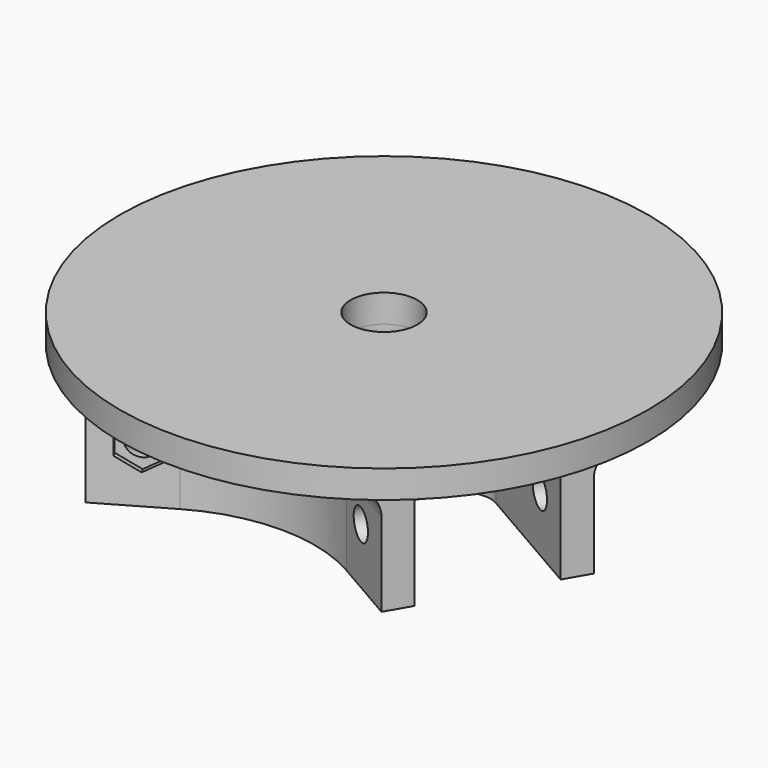
from build123d import *

# Parameters (mm, degrees)
SKETCH_R             = 47.5
SKETCH_R_2           = 6
PAD_DEPTH            = 5
SKETCH001_R          = 6
PAD001_DEPTH         = 20
FILLET_R             = 30
POCKET_DEPTH         = 1
SKETCH003_R          = 2.75
POCKET001_DEPTH      = 320.814007
POCKET001_DEPTH_BACK = 320.814007
POLARPATTERN_COUNT   = 3
FILLET001_R          = 5


with BuildPart() as part:
    # Sketch → Pad (new body)
    with BuildSketch(Plane.XY):
        Circle(SKETCH_R)
        Circle(SKETCH_R_2, mode=Mode.SUBTRACT)
    extrude(amount=PAD_DEPTH)

    # Sketch001 → Pad001 (join)
    with BuildSketch(Plane.XY):
        Polygon((16, 9.237604), (16, 40), (11, 40), (11, 10), (-11, 10), (-11, 40), (-16, 40), (-16, 9.237604), (-42.641016, -6.143594), (-40.141016, -10.473721), (-14.160254, 4.526279), (-3.160254, -14.526279), (-29.141016, -29.526279), (-26.641016, -33.856406), (0, -18.475209), (26.641016, -33.856406), (29.141016, -29.526279), (3.160254, -14.526279), (14.160254, 4.526279), (40.141016, -10.473721), (42.641016, -6.143594), align=None)
        Circle(SKETCH001_R, mode=Mode.SUBTRACT)
    extrude(amount=-PAD001_DEPTH)

    # Fillet
    fillet_edges = [part.edges().sort_by_distance(p)[0] for p in [
        (16, 9.237604, -10),
        (-16, 9.237604, -10),
        (0, -18.475209, -10),
    ]]
    fillet(fillet_edges, radius=FILLET_R)

    # Sketch002 (on Face14 of Fillet) → Pocket (cut)
    with BuildSketch(Plane(origin=(-16, 0, 0), x_dir=(0, -1, 0), z_dir=(-1, 0, 0))):
        Polygon((-28, -12.309401), (-28, -7.690599), (-32, -5.381198), (-36, -7.690599), (-36, -12.309401), (-32, -14.618802), align=None)
    pocket = extrude(amount=-POCKET_DEPTH, mode=Mode.SUBTRACT)

    # Sketch003 → Pocket001 (cut, two sides)
    with BuildSketch(Plane.YZ) as pocket001_sk:
        with Locations((32, -10)):
            Circle(SKETCH003_R)
    pocket001 = extrude(amount=-POCKET001_DEPTH, mode=Mode.SUBTRACT) + extrude(pocket001_sk.sketch, amount=POCKET001_DEPTH_BACK, mode=Mode.SUBTRACT)

    # PolarPattern: Pocket, Pocket001 ×3 about axis
    polarpattern_axis = Axis((0, 0, 0), (0, 0, 1))
    for i in range(1, POLARPATTERN_COUNT):
        add(pocket.rotate(polarpattern_axis, i * 360 / POLARPATTERN_COUNT), mode=Mode.SUBTRACT)
        add(pocket001.rotate(polarpattern_axis, i * 360 / POLARPATTERN_COUNT), mode=Mode.SUBTRACT)

    # Fillet001
    fillet001_edges = [part.edges().sort_by_distance(p)[0] for p in [
        (14.160254, 4.526279, -10),
        (3.160254, -14.526279, -10),
        (11, 10, -10),
        (-11, 10, -10),
        (-14.160254, 4.526279, -10),
        (-3.160254, -14.526279, -10),
        (-8.660254, -5, 0),
        (0, 10, 0),
        (8.660254, -5, 0),
        (20.019238, 11.558112, 0),
        (-20.019238, 11.558112, 0),
        (0, -23.116225, 0),
    ]]
    fillet(fillet001_edges, radius=FILLET001_R)


solid = part.part
